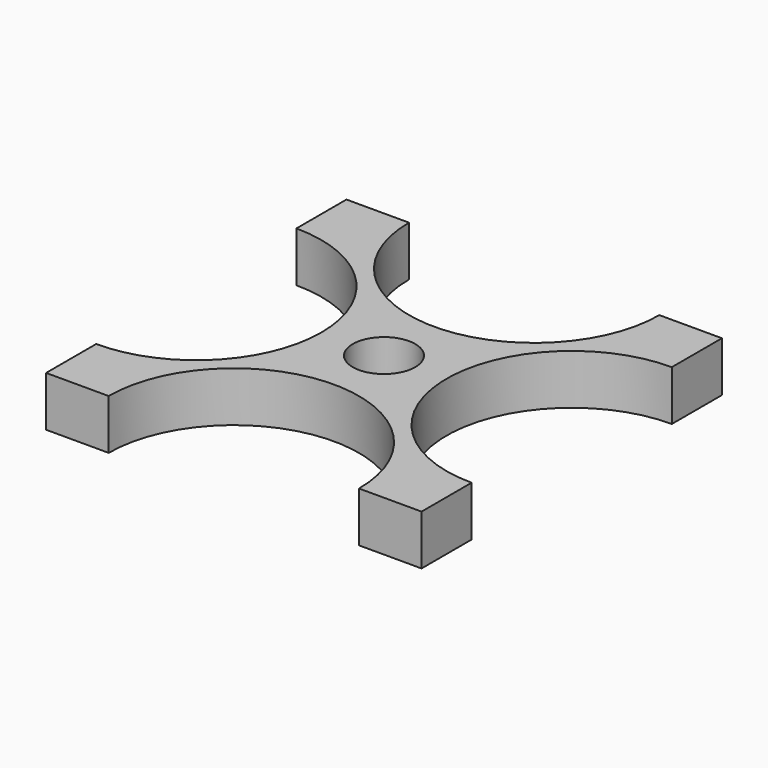
from build123d import *

# Parameters (mm, degrees)
F0_R     = 2.5
F1_DEPTH = 4


with BuildPart() as f1:
    # F0 (on Top) → F1 (new body)
    with BuildSketch(Plane.XY):
        with BuildLine():
            Line((15, 10), (15, 15))
            Line((15, 15), (10, 15))
            ThreePointArc((10, 15), (0, 5), (-10, 15))
            Line((-10, 15), (-15, 15))
            Line((-15, 15), (-15, 10))
            ThreePointArc((-15, 10), (-7.928932, 7.071068), (-5, 0))
            ThreePointArc((-5, 0), (-7.928932, -7.071068), (-15, -10))
            Line((-15, -10), (-15, -15))
            Line((-15, -15), (-10, -15))
            ThreePointArc((-10, -15), (0, -5), (10, -15))
            Line((10, -15), (15, -15))
            Line((15, -15), (15, -10))
            ThreePointArc((15, -10), (5, 0), (15, 10))
        make_face()
        Circle(F0_R, mode=Mode.SUBTRACT)
    extrude(amount=F1_DEPTH)


solid = f1.part
